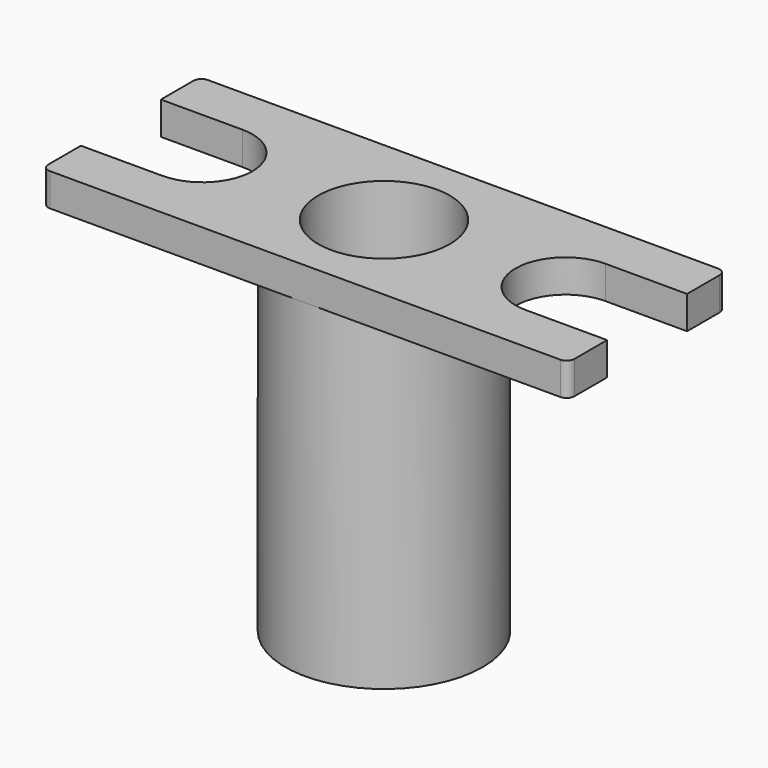
from build123d import *

# Parameters (mm, degrees)
F0_W     = 19.05
F0_H     = 63.5
F3_DEPTH = 69.851
F5_DEPTH = 6.35
F7_DEPTH = 69.851
F9_DEPTH = 69.851
F10_W    = 4.7625
F10_H    = 6.35


with BuildPart() as f1:
    # F0 (on Front) → F1 (revolve)
    with BuildSketch(Plane.XZ):
        Polygon((50.8, 69.85), (0, 69.85), (0, 63.5), (19.05, 63.5), (50.8, 63.5), align=None)
        with Locations((9.525, 31.75)):
            Rectangle(F0_W, F0_H)
    revolve(axis=Axis((0, 0, 29.9419878795), (0, 0, 1)))

    # F2 (on face) → F3 (cut, through all)
    with BuildSketch(Plane.XY.offset(69.85)):
        with BuildLine():
            Line((-47.0928603931, 19.05), (-50.8, 19.05))
            Line((-50.8, 19.05), (-50.8, 9.73e-08))
            ThreePointArc((-50.8, 9.73e-08), (-49.8646032077, 9.7036769806), (-47.0928603931, 19.05))
        make_face()
        with BuildLine():
            Line((50.8, 19.05), (47.0928603931, 19.05))
            ThreePointArc((47.0928603931, 19.05), (49.8646032169, 9.7036769328), (50.8, 0))
            Line((50.8, 0), (50.8, 19.05))
        make_face()
        with BuildLine():
            ThreePointArc((-47.0928603931, -19.05), (-49.8646032262, -9.703676885), (-50.8, 9.73e-08))
            Line((-50.8, 9.73e-08), (-50.8, -19.05))
            Line((-50.8, -19.05), (-47.0928603931, -19.05))
        make_face()
        with BuildLine():
            Line((50.8, -19.05), (50.8, 0))
            ThreePointArc((50.8, 0), (49.8646032169, -9.7036769328), (47.0928603931, -19.05))
            Line((47.0928603931, -19.05), (50.8, -19.05))
        make_face()
        with BuildLine():
            Line((47.0928603931, -19.05), (-47.0928603931, -19.05))
            ThreePointArc((-47.0928603931, -19.05), (0, -50.8), (47.0928603931, -19.05))
        make_face()
        with BuildLine():
            ThreePointArc((47.0928603931, 19.05), (0, 50.8), (-47.0928603931, 19.05))
            Line((-47.0928603931, 19.05), (47.0928603931, 19.05))
        make_face()
    extrude(amount=-F3_DEPTH, mode=Mode.SUBTRACT)

    # F4 (on face) → F5 (join, through all)
    with BuildSketch(Plane.XY.offset(69.85)):
        with BuildLine():
            ThreePointArc((-50.8, 0), (-49.8646032169, 9.7036769328), (-47.0928603931, 19.05))
            Line((-47.0928603931, 19.05), (-50.8, 19.05))
            Line((-50.8, 19.05), (-50.8, 0))
        make_face()
        with BuildLine():
            ThreePointArc((-47.0928603931, -19.05), (-49.8646032169, -9.7036769328), (-50.8, 0))
            Line((-50.8, 0), (-50.8, -19.05))
            Line((-50.8, -19.05), (-47.0928603931, -19.05))
        make_face()
        with BuildLine():
            Line((50.8, -19.05), (50.8, 0))
            ThreePointArc((50.8, 0), (49.8646032169, -9.7036769328), (47.0928603931, -19.05))
            Line((47.0928603931, -19.05), (50.8, -19.05))
        make_face()
        with BuildLine():
            ThreePointArc((47.0928603931, 19.05), (49.8646032169, 9.7036769328), (50.8, 0))
            Line((50.8, 0), (50.8, 19.05))
            Line((50.8, 19.05), (47.0928603931, 19.05))
        make_face()
    extrude(amount=-F5_DEPTH)

    # F6 (on face) → F7 (cut, through all)
    with BuildSketch(Plane.XY.offset(69.85)):
        with BuildLine():
            Line((-35.052, 9.652), (-49.8746317881, 9.652))
            ThreePointArc((-49.8746317881, 9.652), (-50.5681287665, 4.8481288196), (-50.8, 9.73e-08))
            ThreePointArc((-50.8, 9.73e-08), (-50.5681287758, -4.8481287227), (-49.8746317881, -9.652))
            Line((-49.8746317881, -9.652), (-35.052, -9.652))
            ThreePointArc((-35.052, -9.652), (-25.4, 0), (-35.052, 9.652))
        make_face()
        with BuildLine():
            Line((-49.8746317881, 9.652), (-50.8, 9.652))
            Line((-50.8, 9.652), (-50.8, 9.73e-08))
            ThreePointArc((-50.8, 9.73e-08), (-50.5681287665, 4.8481288196), (-49.8746317881, 9.652))
        make_face()
        with BuildLine():
            ThreePointArc((-49.8746317881, -9.652), (-50.5681287758, -4.8481287227), (-50.8, 9.73e-08))
            Line((-50.8, 9.73e-08), (-50.8, -9.652))
            Line((-50.8, -9.652), (-49.8746317881, -9.652))
        make_face()
        with BuildLine():
            ThreePointArc((50.8, 0), (50.5681287712, 4.8481287712), (49.8746317881, 9.652))
            Line((49.8746317881, 9.652), (35.052, 9.652))
            ThreePointArc((35.052, 9.652), (25.4, 0), (35.052, -9.652))
            Line((35.052, -9.652), (49.8746317881, -9.652))
            ThreePointArc((49.8746317881, -9.652), (50.5681287712, -4.8481287712), (50.8, 0))
        make_face()
        with BuildLine():
            Line((50.8, 9.652), (49.8746317881, 9.652))
            ThreePointArc((49.8746317881, 9.652), (50.5681287712, 4.8481287712), (50.8, 0))
            Line((50.8, 0), (50.8, 9.652))
        make_face()
        with BuildLine():
            Line((50.8, -9.652), (50.8, 0))
            ThreePointArc((50.8, 0), (50.5681287712, -4.8481287712), (49.8746317881, -9.652))
            Line((49.8746317881, -9.652), (50.8, -9.652))
        make_face()
    extrude(amount=-F7_DEPTH, mode=Mode.SUBTRACT)

    # F8 (on face) → F9 (cut, through all)
    with BuildSketch(Plane.XY.offset(69.85)):
        with BuildLine():
            Line((50.8, 19.05), (49.276, 19.05))
            ThreePointArc((49.276, 19.05), (50.3536307345, 18.6036307345), (50.8, 17.526))
            Line((50.8, 17.526), (50.8, 19.05))
        make_face()
        with BuildLine():
            Line((49.276, -19.05), (50.8, -19.05))
            Line((50.8, -19.05), (50.8, -17.526))
            ThreePointArc((50.8, -17.526), (50.3536307345, -18.6036307345), (49.276, -19.05))
        make_face()
        with BuildLine():
            Line((-50.8, -17.526), (-50.8, -19.05))
            Line((-50.8, -19.05), (-49.276, -19.05))
            ThreePointArc((-49.276, -19.05), (-50.3536307345, -18.6036307345), (-50.8, -17.526))
        make_face()
        with BuildLine():
            Line((-49.276, 19.05), (-50.8, 19.05))
            Line((-50.8, 19.05), (-50.8, 17.526))
            ThreePointArc((-50.8, 17.526), (-50.3536307345, 18.6036307345), (-49.276, 19.05))
        make_face()
    extrude(amount=-F9_DEPTH, mode=Mode.SUBTRACT)

    # F10 (on Front) → F11 (revolve, cut)
    with BuildSketch(Plane.XZ):
        Polygon((12.7, 69.85), (0, 69.85), (0, 6.35), (4.7625, 6.35), (12.7, 6.35), align=None)
        with Locations((2.38125, 3.175)):
            Rectangle(F10_W, F10_H)
    revolve(axis=Axis((0, 0, 37.4259329495), (0, 0, 1)), mode=Mode.SUBTRACT)


solid = f1.part
